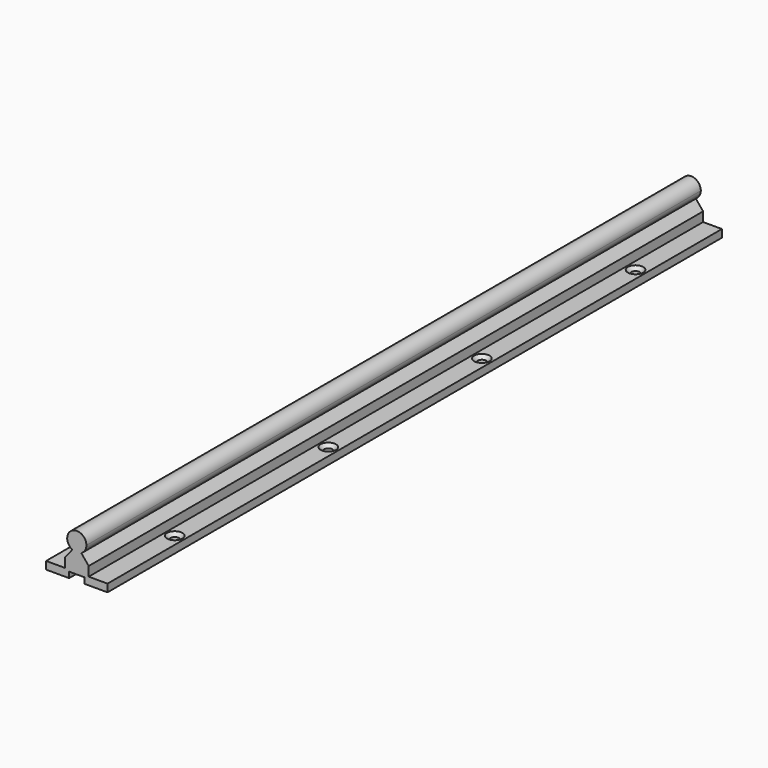
from build123d import *

# Parameters (mm, degrees)
F1_W           = 9.8
F1_H           = 4
F1_W_2         = 12.4
F1_H_2         = 4.9
F3_DEPTH       = 400
F5_D           = 4.5
F5_CSINK_D     = 8
F5_CSINK_ANGLE = 90


with BuildPart() as f3:
    # F1 (on Front) → F3 (new body, through all)
    with BuildSketch(Plane.XZ):
        with Locations((11.1, 2)):
            Rectangle(F1_W, F1_H)
        Polygon((-6.2, 4), (-6.2, 0), (-4, 0), (-4, 3), (4, 3), (4, 0), (6.2, 0), (6.2, 4), align=None)
        with Locations((0, 6.45)):
            Rectangle(F1_W_2, F1_H_2)
        with BuildLine():
            ThreePointArc((5, 18), (-2.5739075352, 22.2866070499), (-2.35, 13.5866679255))
            ThreePointArc((-2.35, 13.5866679255), (0, 13), (2.35, 13.5866679255))
            ThreePointArc((2.35, 13.5866679255), (4.2866070499, 15.4260924648), (5, 18))
        make_face()
        with Locations((-11.1, 2)):
            Rectangle(F1_W, F1_H)
        with BuildLine():
            Line((-2.35, 13.5866679255), (-6.2, 8.9))
            Line((-6.2, 8.9), (6.2, 8.9))
            Line((6.2, 8.9), (2.35, 13.5866679255))
            ThreePointArc((2.35, 13.5866679255), (0, 13), (-2.35, 13.5866679255))
        make_face()
    extrude(amount=F3_DEPTH)

    # F5 (through all)
    with Locations(Plane.XY.offset(4)):
        with Locations((11, -50), (-11, -50), (-11, -150), (11, -150), (11, -250), (-11, -250), (11, -350), (-11, -350), (11, -450), (-11, -450)):
            CounterSinkHole(F5_D / 2, F5_CSINK_D / 2, counter_sink_angle=F5_CSINK_ANGLE)


solid = f3.part
